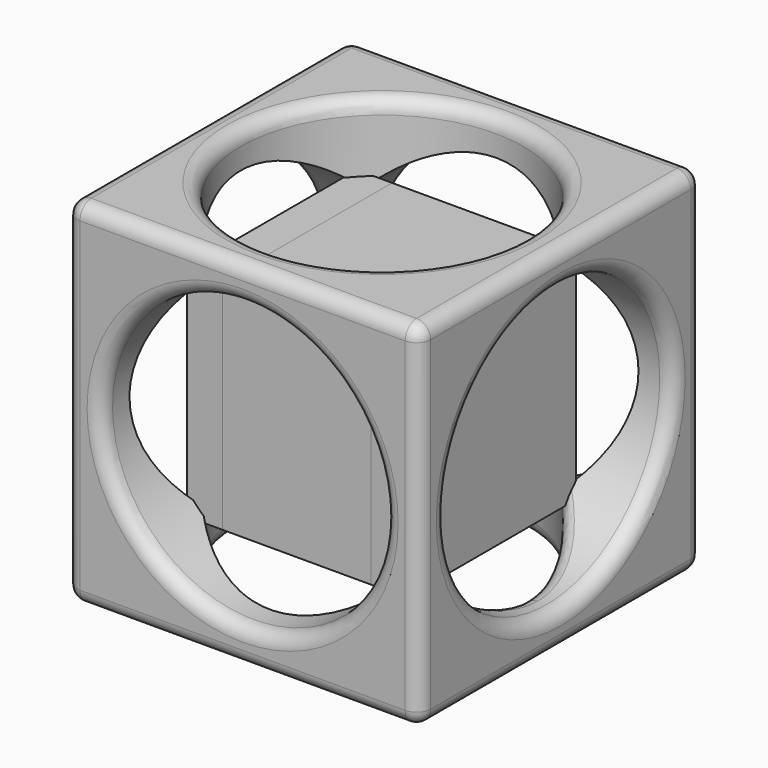
from build123d import *

# Parameters (mm, degrees)
F0_W      = 127
F0_H      = 127
F1_DEPTH  = 127
F2_R      = 50.8
F3_DEPTH  = 127.001
F4_R      = 50.8
F5_DEPTH  = 127.001
F6_R      = 50.8
F7_DEPTH  = 127.001
F8_W      = 53.34
F8_H      = 53.34
F9_DEPTH  = 101.6
F10_DEPTH = 25.4
F11_DEPTH = 12.7
F12_DEPTH = 12.7
F13_DEPTH = 12.7
F14_DEPTH = 12.7
F15_R     = 5.08


with BuildPart() as f1:
    # F0 (on Front) → F1 (new body)
    with BuildSketch(Plane.XZ):
        with Locations((0.692397356, 4.9908066512)):
            Rectangle(F0_W, F0_H)
    extrude(amount=F1_DEPTH)

    # F2 (on face) → F3 (cut, through all)
    with BuildSketch(Plane.XZ.offset(127)):
        with Locations((0.692397356, 4.9908066512)):
            Circle(F2_R)
    extrude(amount=-F3_DEPTH, mode=Mode.SUBTRACT)

    # F4 (on face) → F5 (cut, through all)
    with BuildSketch(Plane(origin=(0, 0, -58.5091933488), x_dir=(1, 0, 0), z_dir=(0, 0, -1))):
        with Locations((0, 63.5)):
            Circle(F4_R)
    extrude(amount=-F5_DEPTH, mode=Mode.SUBTRACT)

    # F6 (on face) → F7 (cut, through all)
    with BuildSketch(Plane.YZ.offset(64.192397356)):
        with Locations((-63.5, 4.9908066512)):
            Circle(F6_R)
    extrude(amount=-F7_DEPTH, mode=Mode.SUBTRACT)

    # F15
    f15_edges = [f1.edges().sort_by_distance(p)[0] for p in [
        (0.692397, -127, 68.490807),
        (64.192397, -127, 4.990807),
        (64.192397, -63.5, 68.490807),
        (64.192397, -63.5, -58.509193),
        (64.192397, 0, 4.990807),
        (-62.807603, -127, 4.990807),
        (0.692397, -127, -58.509193),
        (-62.807603, -63.5, 68.490807),
        (0.692397, 0, 68.490807),
        (-50.107603, -127, 4.990807),
        (-50.8, -63.5, 68.490807),
        (-62.807603, 0, 4.990807),
        (-62.807603, -63.5, -58.509193),
        (-62.807603, -114.3, 4.990807),
        (-50.8, -63.5, -58.509193),
        (0.692397, 0, -58.509193),
        (46.603731, -83.717129, -41.612924),
        (64.192397, -114.3, 4.990807),
        (-50.107603, 0, 4.990807),
    ]]
    fillet(f15_edges, radius=F15_R)


with BuildPart() as f9:
    # F8 (on Front) → F9 (new body)
    with BuildSketch(Plane.XZ):
        with Locations((-0.1988848671, 4.7811786266)):
            Rectangle(F8_W, F8_H)
    extrude(amount=F9_DEPTH)

    # F10 (cut): a face of the model
    f10_faces = [f9.faces().sort_by_distance(p)[0] for p in [
        (-0.1988848671, 0, 4.7811786266),
    ]]
    extrude(f10_faces, amount=-F10_DEPTH, mode=Mode.SUBTRACT)

    # F11 (add): a face of the model
    f11_faces = [f9.faces().sort_by_distance(p)[0] for p in [
        (-0.1988848671, -63.5, 31.4511786266),
    ]]
    extrude(f11_faces, amount=F11_DEPTH)

    # F12 (add): a face of the model
    f12_faces = [f9.faces().sort_by_distance(p)[0] for p in [
        (-0.1988848671, -63.5, -21.8888213734),
    ]]
    extrude(f12_faces, amount=F12_DEPTH)


with BuildPart() as f13:
    # F13 (new): a face of the model
    f13_faces = [f9.part.faces().sort_by_distance(p)[0] for p in [
        (26.4711151329, -63.5, 4.7811786266),
    ]]
    extrude(f13_faces, amount=F13_DEPTH)


with BuildPart() as f14:
    # F14 (new): a face of the model
    f14_faces = [f9.part.faces().sort_by_distance(p)[0] for p in [
        (-26.8688848671, -63.5, 4.7811786266),
    ]]
    extrude(f14_faces, amount=F14_DEPTH)


solid = Compound([f1.part, f9.part, f13.part, f14.part])
